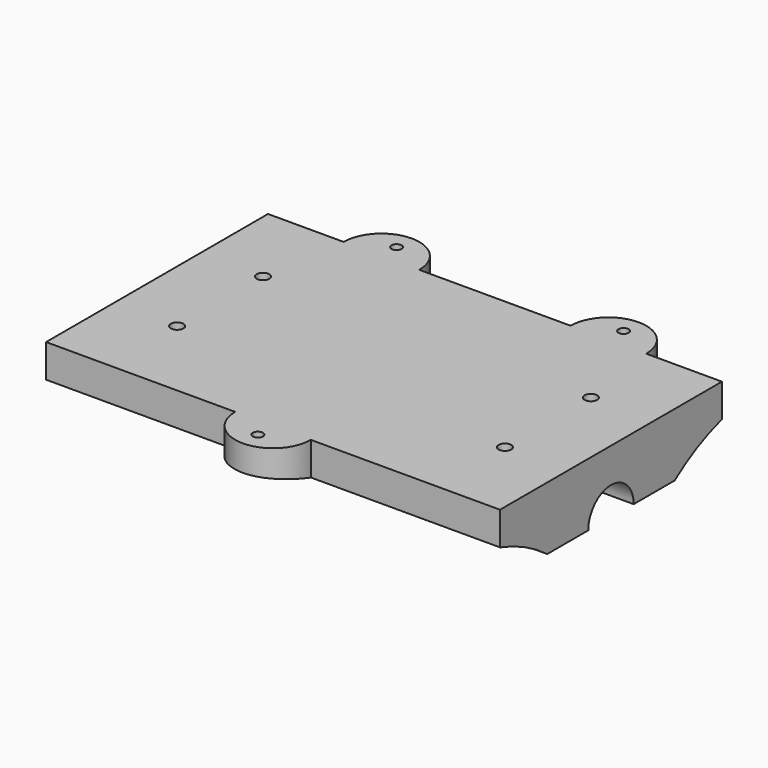
from build123d import *

# Parameters (mm, degrees)
F0_R     = 2
F1_DEPTH = 25
F3_DEPTH = 276
F4_R     = 2
F5_DEPTH = 84.8
F6_R     = 2.5
F7_DEPTH = 5


with BuildPart() as f1:
    # F0 (on Top) → F1 (new body)
    with BuildSketch(Plane.XY):
        with BuildLine():
            Line((-51.434658, 66.572686), (-81.434658, 66.572686))
            Line((-81.434658, 66.572686), (-81.434658, -43.427314))
            Line((-81.434658, -43.427314), (-6.434658, -43.427314))
            ThreePointArc((-6.434658, -43.427314), (8.565342, -58.427314), (23.565342, -43.427314))
            Line((23.565342, -43.427314), (98.565342, -43.427314))
            Line((98.565342, -43.427314), (98.565342, 66.572686))
            Line((98.565342, 66.572686), (68.565342, 66.572686))
            ThreePointArc((68.565342, 66.572686), (53.565342, 81.572686), (38.565342, 66.572686))
            Line((38.565342, 66.572686), (-21.434658, 66.572686))
            ThreePointArc((-21.434658, 66.572686), (-36.434658, 81.572686), (-51.434658, 66.572686))
        make_face()
        with Locations((8.565342, -50.927314)):
            Circle(F0_R, mode=Mode.SUBTRACT)
        with Locations((-36.434658, 74.072686)):
            Circle(F0_R, mode=Mode.SUBTRACT)
        with Locations((53.565342, 74.072686)):
            Circle(F0_R, mode=Mode.SUBTRACT)
    extrude(amount=F1_DEPTH)

    # F2 (on face) → F3 (cut)
    with BuildSketch(Plane.YZ.offset(98.565342)):
        with BuildLine():
            Line((43.145373, 0), (22.822686, 0))
            ThreePointArc((22.822686, 0), (11.572686, 11.25), (0.322686, 0))
            Line((0.322686, 0), (-20, 0))
            ThreePointArc((-20, 0), (-41.231841, 11.150842), (-64.902842, 15))
            Line((-64.902842, 15), (-64.902842, -16.413443))
            Line((-64.902842, -16.413443), (88.048215, -16.413443))
            Line((88.048215, -16.413443), (88.048215, 15))
            ThreePointArc((88.048215, 15), (64.377213, 11.150842), (43.145373, 0))
        make_face()
    extrude(amount=-F3_DEPTH, mode=Mode.SUBTRACT)

    # F4 (on face) → F5 (cut)
    with BuildSketch(Plane.XY.offset(25)):
        with Locations((-56.434658, 32.872686)):
            Circle(F4_R)
        with Locations((73.565342, 32.872686)):
            Circle(F4_R)
        with Locations((-56.434658, -9.727314)):
            Circle(F4_R)
        with Locations((73.565342, -9.727314)):
            Circle(F4_R)
    extrude(amount=-F5_DEPTH, mode=Mode.SUBTRACT)

    # F6 (on face) → F7 (cut)
    with BuildSketch(Plane.XY.offset(25)):
        with Locations((-56.434658, 32.872686)):
            Circle(F6_R)
        with Locations((73.565342, 32.872686)):
            Circle(F6_R)
        with Locations((73.565342, -9.727314)):
            Circle(F6_R)
        with Locations((-56.434658, -9.727314)):
            Circle(F6_R)
    extrude(amount=-F7_DEPTH, mode=Mode.SUBTRACT)


solid = f1.part
